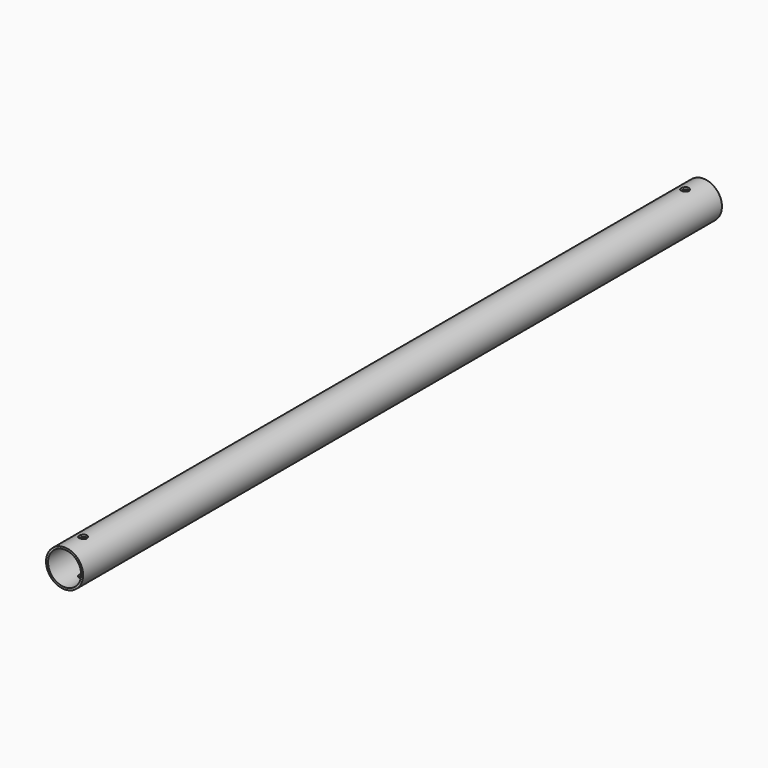
from build123d import *

# Parameters (mm, degrees)
F0_R     = 24.15
F0_R_2   = 21.55
F1_DEPTH = 520
F4_D     = 10


with BuildPart() as f1:
    # F0 (on Front) → F1 (new body, symmetric)
    with BuildSketch(Plane.XZ):
        Circle(F0_R)
        Circle(F0_R_2, mode=Mode.SUBTRACT)
    extrude(amount=F1_DEPTH, both=True)

    # F4 (through all)
    with Locations(Plane.XY.offset(24.15)):
        with Locations((0, -490), (0, 490)):
            Hole(F4_D / 2)


solid = f1.part
